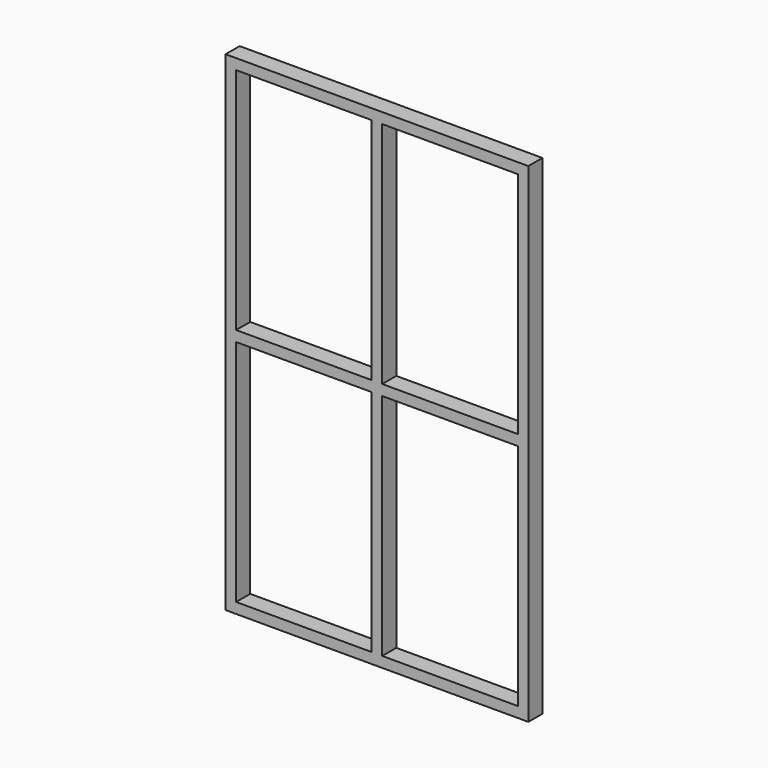
from build123d import *

# Parameters (mm, degrees)
F0_W     = 488.95
F0_H     = 38.1
F1_DEPTH = 63.5


with BuildPart() as f1:
    # F0 (on Front) → F1 (new body)
    with BuildSketch(Plane.XZ):
        Polygon((-508, 844.55), (-546.1, 844.55), (-546.1, -844.55), (-508, -844.55), (-508, -19.05), (-508, 19.05), align=None)
        Polygon((546.1, -844.55), (546.1, 844.55), (508, 844.55), (508, 19.05), (508, -19.05), (508, -844.55), align=None)
        Polygon((546.1, 844.55), (546.1, 882.65), (-546.1, 882.65), (-546.1, 844.55), (-508, 844.55), (-19.05, 844.55), (19.05, 844.55), (508, 844.55), align=None)
        Polygon((19.05, 19.05), (19.05, 844.55), (-19.05, 844.55), (-19.05, 19.05), (-19.05, -19.05), (-19.05, -844.55), (19.05, -844.55), (19.05, -19.05), align=None)
        with Locations((263.525, 0)):
            Rectangle(F0_W, F0_H)
        with Locations((-263.525, 0)):
            Rectangle(F0_W, F0_H)
        Polygon((546.1, -882.65), (546.1, -844.55), (508, -844.55), (19.05, -844.55), (-19.05, -844.55), (-508, -844.55), (-546.1, -844.55), (-546.1, -882.65), align=None)
    extrude(amount=F1_DEPTH)


solid = f1.part
